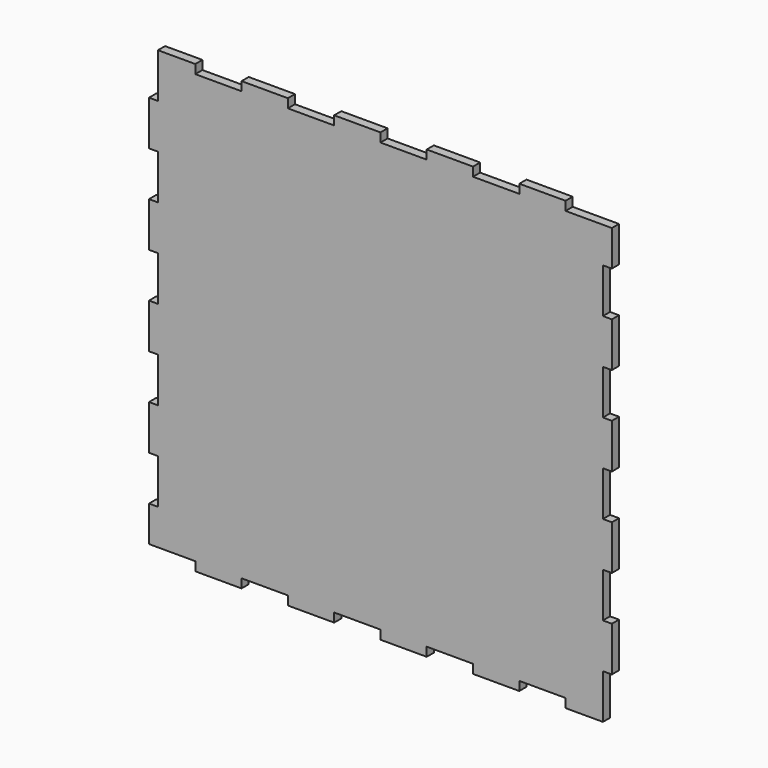
from build123d import *

# Parameters (mm, degrees)
F1_DEPTH = 5.5


with BuildPart() as f1:
    # F0 (on Front) → F1 (new body)
    with BuildSketch(Plane.XZ):
        Polygon((-114, 137.5), (-137, 137.5), (-137, 110), (-142.5, 110), (-142.5, 82.5), (-137, 82.5), (-137, 55), (-142.5, 55), (-142.5, 27.5), (-137, 27.5), (-137, 0), (-142.5, 0), (-142.5, -27.5), (-137, -27.5), (-137, -55), (-142.5, -55), (-142.5, -82.5), (-137, -82.5), (-137, -110), (-142.5, -110), (-142.5, -132), (-114, -132), (-114, -137.5), (-85.5, -137.5), (-85.5, -132), (-57, -132), (-57, -137.5), (-28.5, -137.5), (-28.5, -132), (0, -132), (0, -137.5), (28.5, -137.5), (28.5, -132), (57, -132), (57, -137.5), (85.5, -137.5), (85.5, -132), (114, -132), (114, -137.5), (137, -137.5), (137, -110), (142.5, -110), (142.5, -82.5), (137, -82.5), (137, -55), (142.5, -55), (142.5, -27.5), (137, -27.5), (137, 0), (142.5, 0), (142.5, 27.5), (137, 27.5), (137, 55), (142.5, 55), (142.5, 82.5), (137, 82.5), (137, 110), (142.5, 110), (142.5, 132), (114, 132), (114, 137.5), (85.5, 137.5), (85.5, 132), (57, 132), (57, 137.5), (28.5, 137.5), (28.5, 132), (0, 132), (0, 137.5), (-28.5, 137.5), (-28.5, 132), (-57, 132), (-57, 137.5), (-85.5, 137.5), (-85.5, 132), (-114, 132), align=None)
    extrude(amount=F1_DEPTH)


solid = f1.part
